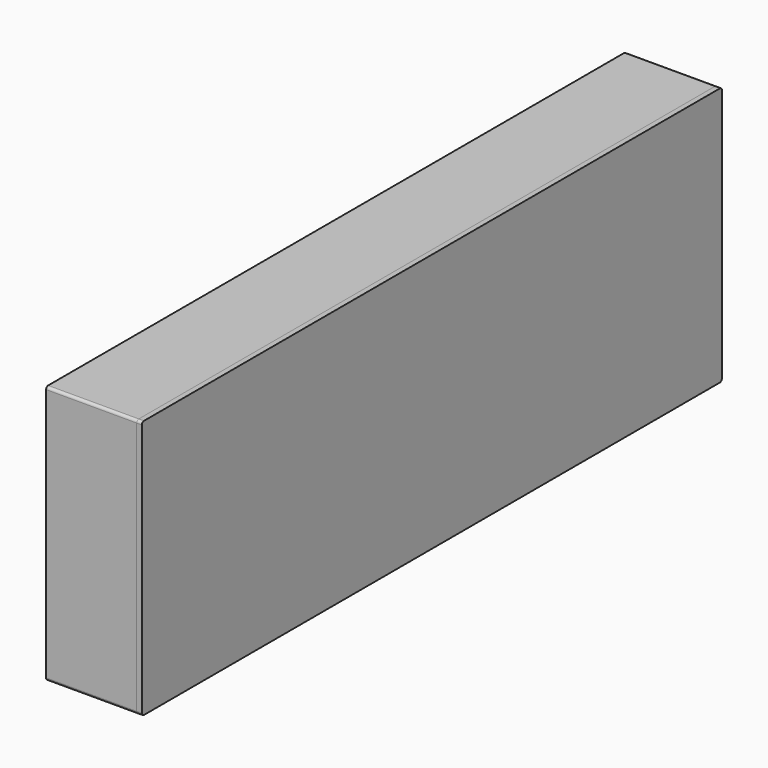
from build123d import *

# Parameters (mm, degrees)
F0_W     = 280
F0_H     = 100
F1_DEPTH = 35
F2_DEPTH = 2
F3_R     = 1
F3_2_R   = 1
F4_W     = 31
F4_H     = 31
F4_W_2   = 86.7
F4_H_2   = 55
F4_R     = 12.5
F5_DEPTH = 20
F6_W     = 276
F6_H     = 96
F6_W_2   = 31
F6_H_2   = 31
F6_W_3   = 86.7
F6_H_3   = 55
F6_R     = 12.5
F7_DEPTH = 3
F8_R     = 5
F9_DEPTH = 12.6


with BuildPart() as f1:
    # F0 (on Right) → F1 (new body)
    with BuildSketch(Plane.YZ):
        with Locations((140, 50)):
            Rectangle(F0_W, F0_H)
    extrude(amount=F1_DEPTH)


with BuildPart() as f2:
    # F2 (new): a face of the model
    f2_faces = [f1.part.faces().sort_by_distance(p)[0] for p in [
        (35, 140, 50),
    ]]
    extrude(f2_faces, amount=F2_DEPTH)

    # F3#2
    f3_2_edges = [f2.edges().sort_by_distance(p)[0] for p in [
        (36, 280, 0),
        (36, 280, 100),
        (36, 0, 0),
        (36, 0, 100),
    ]]
    fillet(f3_2_edges, radius=F3_2_R)


with BuildPart() as f1_1:
    add(f1.part)

    # F3
    f3_edges = [f1_1.edges().sort_by_distance(p)[0] for p in [
        (17.5, 0, 100),
        (17.5, 0, 0),
        (17.5, 280, 0),
        (17.5, 280, 100),
    ]]
    fillet(f3_edges, radius=F3_R)

    # F4 (on face) → F5 (cut)
    with BuildSketch(Plane.YZ.offset(35)):
        with Locations((45.5, 53.0268381089)):
            Rectangle(F4_W, F4_H)
        with Locations((143.35, 52.5)):
            Rectangle(F4_W_2, F4_H_2)
        with Locations((235.8749031447, 55.4864800468)):
            Circle(F4_R)
    extrude(amount=-F5_DEPTH, mode=Mode.SUBTRACT)

    # F6 (on face) → F7 (cut)
    with BuildSketch(Plane.YZ.offset(35)):
        with Locations((140, 50)):
            Rectangle(F6_W, F6_H)
        with Locations((45.5, 53.0268381089)):
            Rectangle(F6_W_2, F6_H_2, mode=Mode.SUBTRACT)
        with Locations((143.35, 52.5)):
            Rectangle(F6_W_3, F6_H_3, mode=Mode.SUBTRACT)
        with Locations((235.8749031447, 55.4864800468)):
            Circle(F6_R, mode=Mode.SUBTRACT)
    extrude(amount=-F7_DEPTH, mode=Mode.SUBTRACT)

    # F8
    f8_edges = [f1_1.edges().sort_by_distance(p)[0] for p in [
        (23.5, 100, 80),
        (23.5, 186.7, 80),
        (23.5, 186.7, 25),
        (23.5, 100, 25),
    ]]
    fillet(f8_edges, radius=F8_R)

    # F9 (add): faces of the model
    f9_faces = [f1_1.faces().sort_by_distance(p)[0] for p in [
        (15, 143.35, 52.5),
        (15, 235.8749031447, 55.4864800468),
    ]]
    extrude(f9_faces, amount=F9_DEPTH)


solid = Compound([f2.part, f1_1.part])
